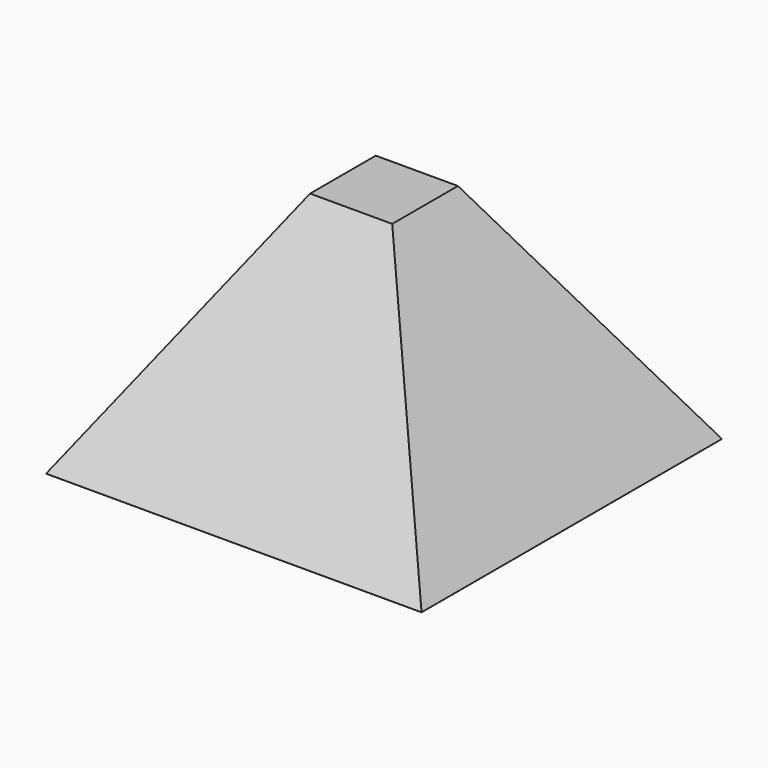
from build123d import *

# Parameters (mm, degrees)
F0_W     = 406.4
F0_H     = 406.4
F1_DEPTH = 254
F2_SIZE2 = 253.9544670893
F2_SIZE  = 158.75


with BuildPart() as f1:
    # F0 (on Top) → F1 (new body)
    with BuildSketch(Plane.XY):
        with Locations((157.0222588599, 158.2473876297)):
            Rectangle(F0_W, F0_H)
    extrude(amount=F1_DEPTH)

    # F2
    f2_edges = [f1.edges().sort_by_distance(p)[0] for p in [
        (-46.177741, 158.247388, 254),
        (157.022259, 361.447388, 254),
        (360.222259, 158.247388, 254),
        (157.022259, -44.952612, 254),
    ]]
    f2_side = f1.faces().sort_by_distance((157.022259, 158.247388, 254))[0]
    chamfer(f2_edges, length=F2_SIZE, length2=F2_SIZE2, reference=f2_side)


solid = f1.part
